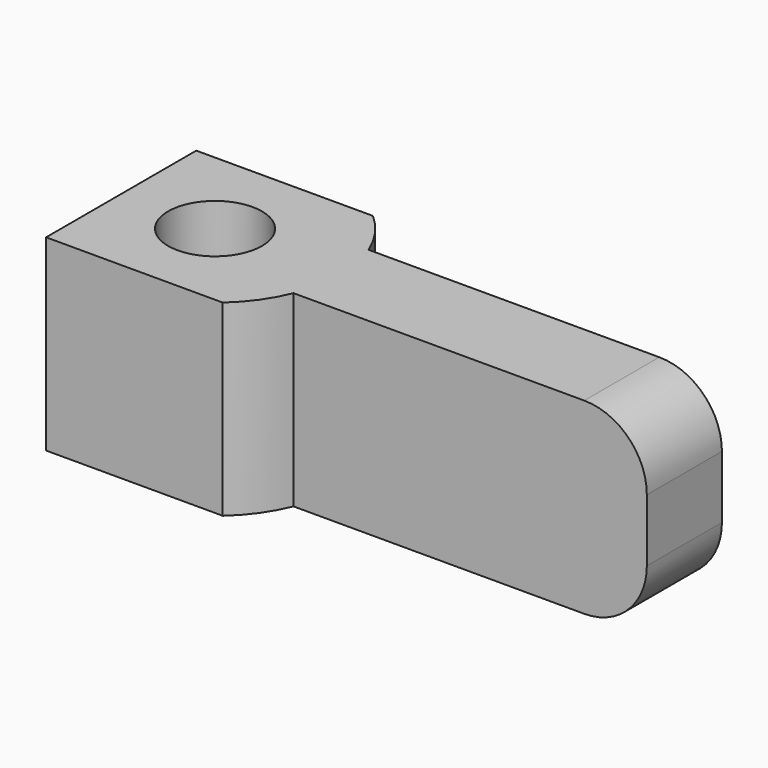
from build123d import *

# Parameters (mm, degrees)
F0_W     = 18
F0_H     = 6
F1_DEPTH = 6
F2_R     = 1.5
F3_DEPTH = 10
F5_DEPTH = 25
F6_R     = 2


with BuildPart() as f1:
    # F0 (on Top) → F1 (new body)
    with BuildSketch(Plane.XY):
        with Locations((6, 0)):
            Rectangle(F0_W, F0_H)
    extrude(amount=F1_DEPTH)

    # F2 (on face) → F3 (cut)
    with BuildSketch(Plane.XY.offset(6)):
        Circle(F2_R)
    extrude(amount=-F3_DEPTH, mode=Mode.SUBTRACT)

    # F4 (on face) → F5 (cut)
    with BuildSketch(Plane.XY.offset(6)):
        with BuildLine():
            Line((3.708099, 1.5), (15, 1.5))
            Line((15, 1.5), (15, 3))
            Line((15, 3), (2.645751, 3))
            ThreePointArc((2.645751, 3), (3.264254, 2.311849), (3.708099, 1.5))
        make_face()
        with BuildLine():
            Line((15, -3), (15, -1.5))
            Line((15, -1.5), (3.708099, -1.5))
            ThreePointArc((3.708099, -1.5), (3.264254, -2.311849), (2.645751, -3))
            Line((2.645751, -3), (15, -3))
        make_face()
    extrude(amount=-F5_DEPTH, mode=Mode.SUBTRACT)

    # F6
    f6_edges = [f1.edges().sort_by_distance(p)[0] for p in [
        (15, 0, 6),
        (15, 0, 0),
    ]]
    fillet(f6_edges, radius=F6_R)


solid = f1.part
